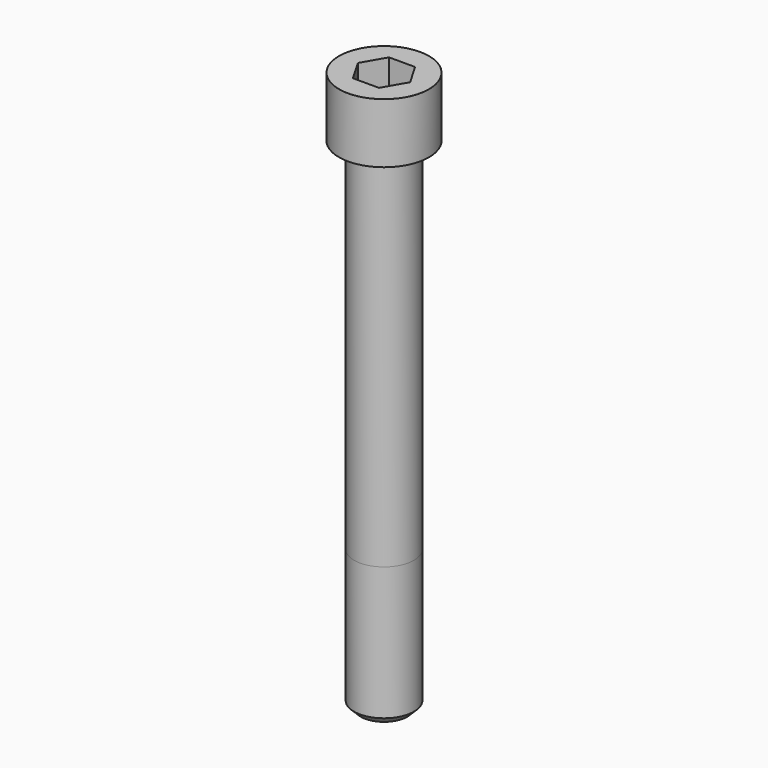
from build123d import *

# Parameters (mm, degrees)
POCKET_DEPTH = 27.15


with BuildPart() as part:
    # Sketch → Revolve (revolve)
    with BuildSketch(Plane.YZ):
        with BuildLine():
            Line((17.999, 0), (27, 0))
            Line((27, 0), (27, 35.97229))
            ThreePointArc((27, 35.97229), (26.991884, 35.991884), (26.97229, 36))
            Line((26.97229, 36), (0, 36))
            Line((0, -300), (0, 36))
            Line((14, -300), (0, -300))
            Line((18, -296), (14, -300))
            Line((18, -216), (18, -296))
            Line((17.999, 0), (18, -216))
        make_face()
    revolve(axis=Axis((0, 0, 0), (0, 0, 1)))

    # Sketch001 → Pocket (cut)
    with BuildSketch(Plane.XY.offset(36)):
        Polygon((15.67506, 0), (7.83753, 13.575), (-7.83753, 13.575), (-15.67506, 0), (-7.83753, -13.575), (7.83753, -13.575), align=None)
    extrude(amount=-POCKET_DEPTH, mode=Mode.SUBTRACT)


solid = part.part
